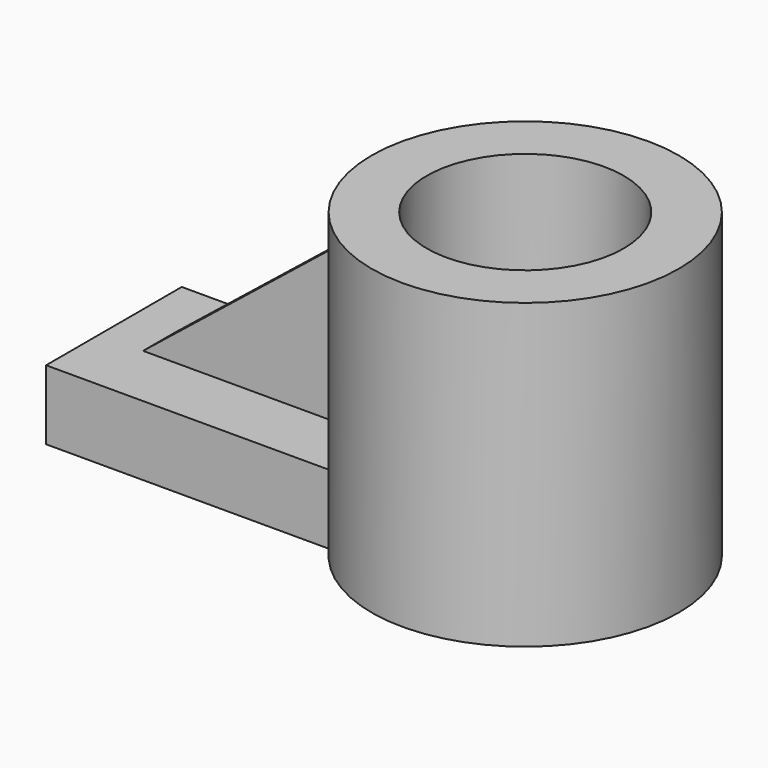
from build123d import *

# Parameters (mm, degrees)
F0_R     = 35.316834
F0_R_2   = 22.645268
F1_DEPTH = 69.596
F3_DEPTH = 16.002
F4_W     = 31.616599
F4_H     = 9.21494
F5_DEPTH = 55.372
F6_W     = 26.249159
F6_H     = 9.21494
F7_DEPTH = 39.37
F9_DEPTH = 38.1


with BuildPart() as f1:
    # F0 (on Top) → F1 (new body)
    with BuildSketch(Plane.XY):
        with Locations((35.493162, 0)):
            Circle(F0_R)
        with Locations((35.493162, 0)):
            Circle(F0_R_2, mode=Mode.SUBTRACT)
    extrude(amount=F1_DEPTH)

    # F2 (on face) → F3 (join)
    with BuildSketch(Plane(origin=(0, 0, 0), x_dir=(1, 0, 0), z_dir=(0, 0, -1))):
        with BuildLine():
            Line((-58.806233, -19.13999), (5.812536, -19.13999))
            ThreePointArc((5.812536, -19.13999), (0.178957, 0.430922), (6.288416, 19.858539))
            Line((6.288416, 19.858539), (-58.806233, 19.858539))
            Line((-58.806233, 19.858539), (-58.806233, -19.13999))
        make_face()
    extrude(amount=-F3_DEPTH)

    # F4 (on face) → F5 (join)
    with BuildSketch(Plane(origin=(0, 0, 0), x_dir=(1, 0, 0), z_dir=(0, 0, -1))):
        with Locations((-6.637758, 0)):
            Rectangle(F4_W, F4_H)
    extrude(amount=-F5_DEPTH)

    # F6 (on face) → F7 (join)
    with BuildSketch(Plane.XY.offset(16.002)):
        with Locations((-35.570636, 0)):
            Rectangle(F6_W, F6_H)
    extrude(amount=F7_DEPTH)

    # F8 (on face) → F9 (cut)
    with BuildSketch(Plane.XZ.offset(4.60747)):
        Polygon((-48.695216, 16.002), (0.478165, 55.372), (-48.695216, 55.372), align=None)
    extrude(amount=-F9_DEPTH, mode=Mode.SUBTRACT)


solid = f1.part
